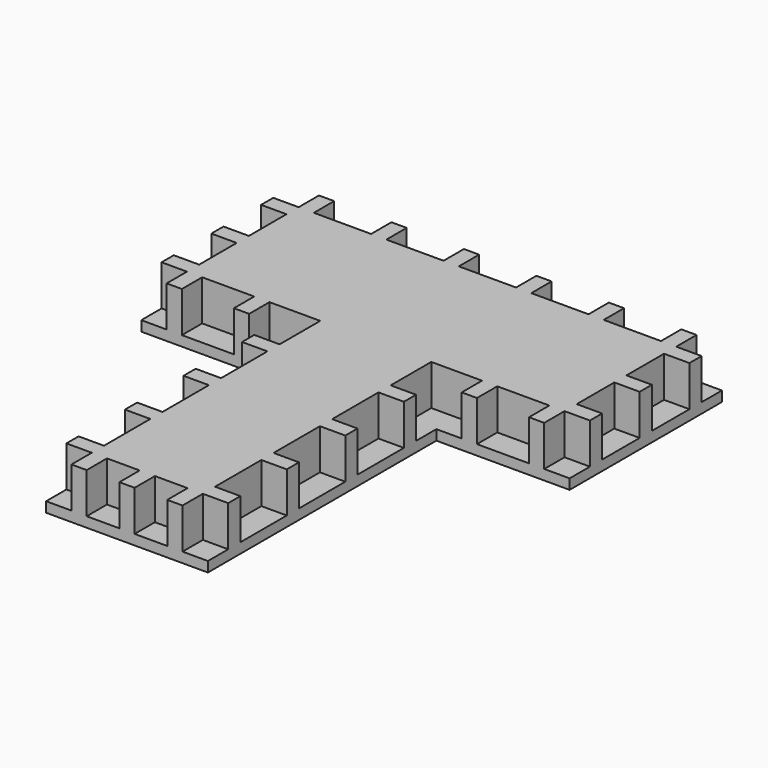
from build123d import *

# Parameters (mm, degrees)
F1_DEPTH = 4
F2_W     = 4.1
F2_H     = 2
F2_W_2   = 2
F2_H_2   = 3.7
F2_W_3   = 4.51
F2_W_4   = 2.255
F2_H_3   = 4.566667
F2_H_4   = 4.566666
F2_W_5   = 2.575
F3_DEPTH = 3.2


with BuildPart() as f1:
    # F0 (on Top) → F1 (new body)
    with BuildSketch(Plane.XY):
        Polygon((-16.875, 22.5), (-6.375, 22.5), (-6.375, 0), (6.375, 0), (6.375, 22.5), (16.875, 22.5), (16.875, 37.5), (-16.875, 37.5), align=None)
    extrude(amount=F1_DEPTH)


with BuildPart() as f3:
    # F2 (on face) → F3 (new body)
    with BuildSketch(Plane.XY.offset(4)):
        with Locations((-11.625, 23.5)):
            Rectangle(F2_W, F2_H)
        with Locations((-15.875, 23.5)):
            Rectangle(F2_W_2, F2_H)
        with Locations((-15.875, 27.55)):
            Rectangle(F2_W_2, F2_H_2)
        with Locations((-15.875, 32.45)):
            Rectangle(F2_W_2, F2_H_2)
        with Locations((-11.42, 36.5)):
            Rectangle(F2_W_3, F2_H)
        with Locations((-5.71, 36.5)):
            Rectangle(F2_W_3, F2_H)
        with Locations((-1.1275, 36.5)):
            Rectangle(F2_W_4, F2_H)
        with Locations((-15.875, 36.5)):
            Rectangle(F2_W_2, F2_H)
        with Locations((-5.375, 17.016666)):
            Rectangle(F2_W_2, F2_H_3)
        with Locations((-5.375, 11.25)):
            Rectangle(F2_W_2, F2_H_4)
        with Locations((-5.375, 5.483333)):
            Rectangle(F2_W_2, F2_H_3)
        with Locations((-5.375, 1)):
            Rectangle(F2_W_2, F2_H)
        with Locations((-1.8875, 1)):
            Rectangle(F2_W_5, F2_H)
        Polygon((-8.375, 22.5), (-6.375, 22.5), (-6.375, 20.5), (-4.375, 20.5), (-4.375, 24.5), (-8.375, 24.5), align=None)
    extrude(amount=-F3_DEPTH)


with BuildPart() as f4_1:
    # F4: instance of F3
    add(f3.part.mirror(Plane.YZ))


with BuildPart() as f1_1:
    add(f1.part)

    # F5: cut F3, F4_1
    add(f3.part, mode=Mode.SUBTRACT)
    add(f4_1.part, mode=Mode.SUBTRACT)


solid = f1_1.part
